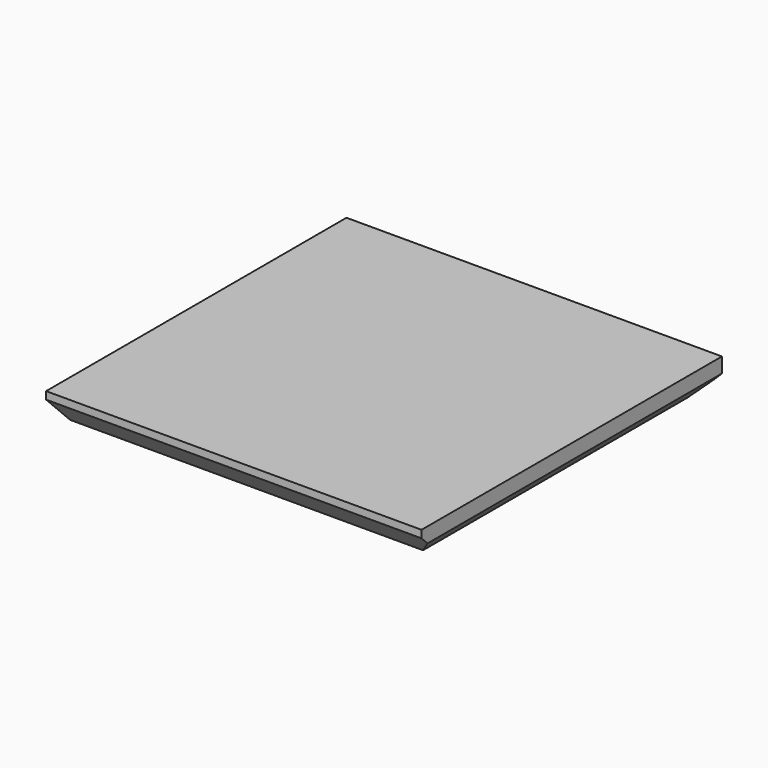
from build123d import *

# Parameters (mm, degrees)
SKETCH_W        = 25
SKETCH_H        = 25
PAD_DEPTH       = 2.5
CHAMFER_SIZE    = 2
CHAMFER001_SIZE = 1.5
CHAMFER002_SIZE = 1


with BuildPart() as part:
    # Sketch → Pad (new body)
    with BuildSketch(Plane.XY):
        with Locations((12.5, 12.5)):
            Rectangle(SKETCH_W, SKETCH_H)
    extrude(amount=PAD_DEPTH)

    # Chamfer
    chamfer_edges = [part.edges().sort_by_distance(p)[0] for p in [
        (12.5, 0, 0),
    ]]
    chamfer(chamfer_edges, length=CHAMFER_SIZE)

    # Chamfer001
    chamfer001_edges = [part.edges().sort_by_distance(p)[0] for p in [
        (25, 13.5, 0),
    ]]
    chamfer(chamfer001_edges, length=CHAMFER001_SIZE)

    # Chamfer002
    chamfer002_edges = [part.edges().sort_by_distance(p)[0] for p in [
        (11.75, 25, 0),
    ]]
    chamfer(chamfer002_edges, length=CHAMFER002_SIZE)


solid = part.part
